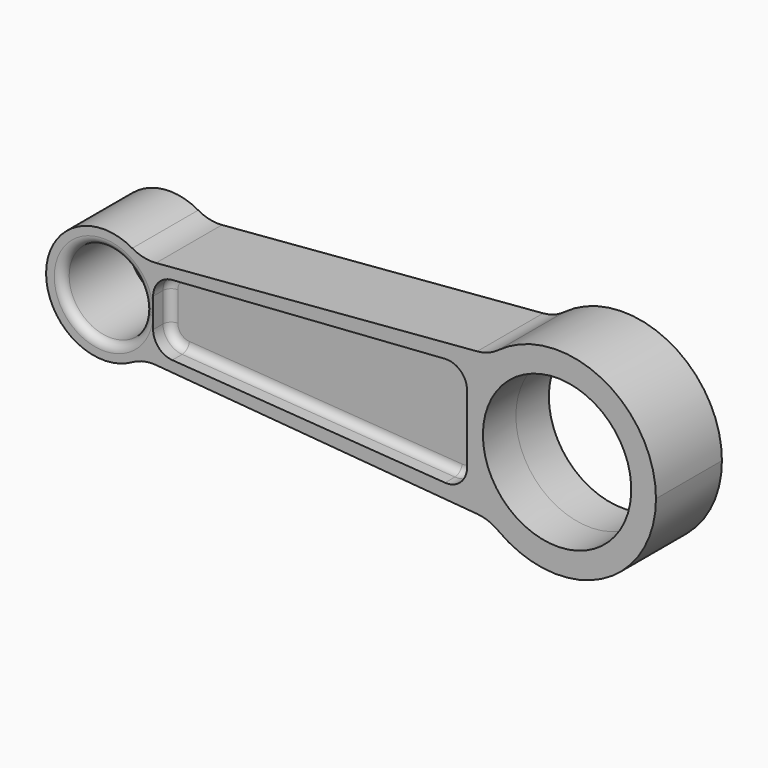
from build123d import *

# Parameters (mm, degrees)
F0_R     = 10
F1_DEPTH = 10
F2_R     = 10
F3_R     = 10
F5_DEPTH = 5
F6_R     = 5
F7_R     = 5
F8_R     = 2


with BuildPart() as f1:
    # F0 (on Front) → F1 (new body, symmetric)
    with BuildSketch(Plane.XZ):
        with BuildLine():
            ThreePointArc((-36.194757, 10.609343), (-32.603742, 5.835876), (-31.329407, 0))
            Line((-31.329407, 0), (40.670593, 0))
            ThreePointArc((40.670593, 0), (42.681766, 9.617248), (48.378215, 17.622667))
            Line((48.378215, 17.622667), (-36.194757, 10.609343))
        make_face()
        with BuildLine():
            Line((40.670593, 0), (-31.329407, 0))
            ThreePointArc((-31.329407, 0), (-32.603742, -5.835876), (-36.194757, -10.609343))
            Line((-36.194757, -10.609343), (48.378215, -17.622667))
            ThreePointArc((48.378215, -17.622667), (42.681766, -9.617248), (40.670593, 0))
        make_face()
        with BuildLine():
            ThreePointArc((48.378215, 17.622667), (42.681766, 9.617248), (40.670593, 0))
            ThreePointArc((40.670593, 0), (42.681766, -9.617248), (48.378215, -17.622667))
            ThreePointArc((48.378215, -17.622667), (74.287841, -21.988828), (88.670593, 0))
            ThreePointArc((88.670593, 0), (74.287841, 21.988828), (48.378215, 17.622667))
        make_face()
        with BuildLine():
            ThreePointArc((82.670593, 0), (64.670593, -18), (46.670593, 0))
            ThreePointArc((46.670593, 0), (64.670593, 18), (82.670593, 0))
        make_face(mode=Mode.SUBTRACT)
        with BuildLine():
            ThreePointArc((-36.194757, -10.609343), (-32.603742, -5.835876), (-31.329407, 0))
            ThreePointArc((-31.329407, 0), (-32.603742, 5.835876), (-36.194757, 10.609343))
            ThreePointArc((-36.194757, 10.609343), (-59.329407, 0), (-36.194757, -10.609343))
        make_face()
        with Locations((-45.329407, 0)):
            Circle(F0_R, mode=Mode.SUBTRACT)
    extrude(amount=F1_DEPTH, both=True)

    # F2
    f2_edges = [f1.edges().sort_by_distance(p)[0] for p in [
        (-36.194757, 0, 10.609343),
    ]]
    fillet(f2_edges, radius=F2_R)

    # F3
    f3_edges = [f1.edges().sort_by_distance(p)[0] for p in [
        (48.378215, 5, 17.622667),
        (48.378215, 5, -17.622667),
        (-36.194757, 0, -10.609343),
    ]]
    fillet(f3_edges, radius=F3_R)

    # F4 (on face) → F5 (cut)
    with BuildSketch(Plane.XZ.offset(10)):
        Polygon((42.828392, 13.610834), (-33.350925, 8.230139), (-33.350925, -8.230139), (42.828392, -13.610834), align=None)
    extrude(amount=-F5_DEPTH, mode=Mode.SUBTRACT)

    # F6
    f6_edges = [f1.edges().sort_by_distance(p)[0] for p in [
        (-33.350925, -7.5, 8.230139),
        (-33.350925, -7.5, -8.230139),
    ]]
    fillet(f6_edges, radius=F6_R)

    # F7
    f7_edges = [f1.edges().sort_by_distance(p)[0] for p in [
        (42.828392, -7.5, 13.610834),
        (42.828392, -7.5, -13.610834),
    ]]
    fillet(f7_edges, radius=F7_R)

    # F8
    f8_edges = [f1.edges().sort_by_distance(p)[0] for p in [
        (4.386452, -5, 10.895604),
        (-55.329407, -10, 0),
    ]]
    fillet(f8_edges, radius=F8_R)


solid = f1.part
